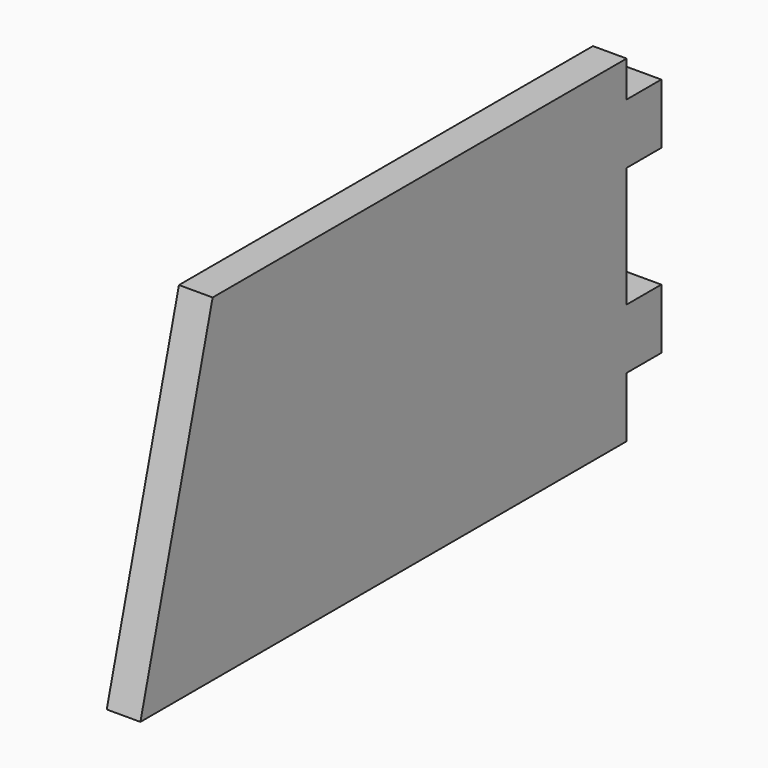
from build123d import *

# Parameters (mm, degrees)
F0_W     = 18
F0_H     = 25
F1_DEPTH = 14


with BuildPart() as f1:
    # F0 (on Right) → F1 (new body)
    with BuildSketch(Plane.YZ):
        with Locations((9, 37.5)):
            Rectangle(F0_W, F0_H)
        with Locations((9, 112.5)):
            Rectangle(F0_W, F0_H)
        Polygon((-252.512887, 0), (0, 0), (0, 25), (0, 50), (0, 100), (0, 125), (0, 140), (-215, 140), align=None)
    extrude(amount=F1_DEPTH)


solid = f1.part
